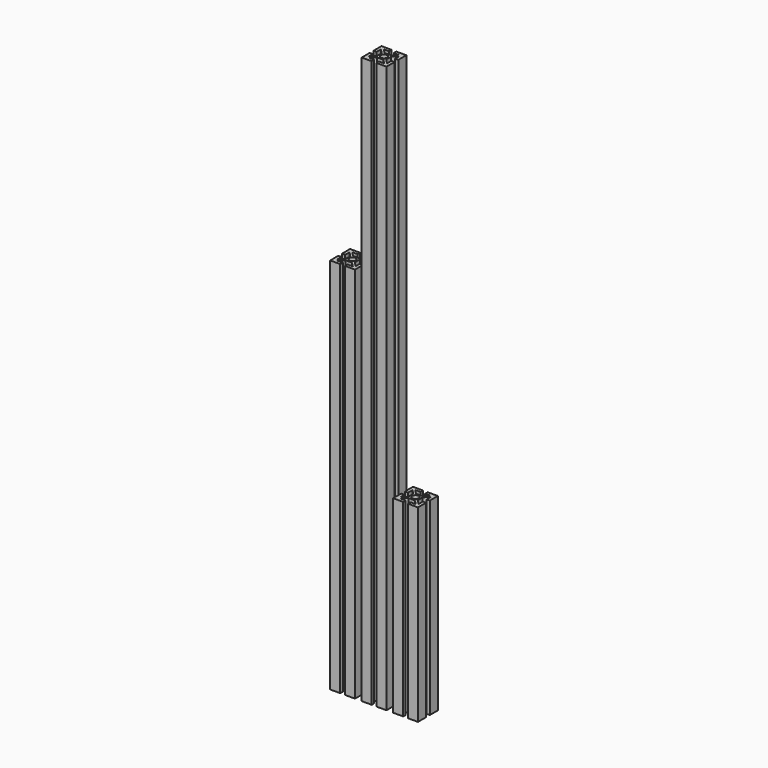
from build123d import *

# Parameters (mm, degrees)
F0_R     = 2.6035
F1_DEPTH = 304.8
F2_DEPTH = 457.2
F3_DEPTH = 152.4


with BuildPart() as f1:
    # F0 (on Top) → F1 (new body)
    with BuildSketch(Plane.XY):
        Polygon((-11.70134, 7.565552), (-16.78134, 7.565552), (-20.43134, 11.215552), (-16.14634, 11.215552), (-16.14634, 13.755552), (-24.24134, 13.755552), (-24.24134, 5.660552), (-21.70134, 5.660552), (-21.70134, 9.945552), (-18.05134, 6.295552), (-18.05134, 1.215552), (-21.70134, -2.434448), (-21.70134, 1.850552), (-24.24134, 1.850552), (-24.24134, -6.244448), (-16.14634, -6.244448), (-16.14634, -3.704448), (-20.43134, -3.704448), (-16.78134, -0.054448), (-11.70134, -0.054448), (-8.05134, -3.704448), (-12.33634, -3.704448), (-12.33634, -6.244448), (-4.24134, -6.244448), (-4.24134, 1.850552), (-6.78134, 1.850552), (-6.78134, -2.434448), (-10.43134, 1.215552), (-10.43134, 6.295552), (-6.78134, 9.945552), (-6.78134, 5.660552), (-4.24134, 5.660552), (-4.24134, 13.755552), (-12.33634, 13.755552), (-12.33634, 11.215552), (-8.05134, 11.215552), align=None)
        with Locations((-14.24134, 3.755552)):
            Circle(F0_R, mode=Mode.SUBTRACT)
    extrude(amount=F1_DEPTH)


with BuildPart() as f2:
    # F0 (on Top) → F2 (new body)
    with BuildSketch(Plane.XY):
        Polygon((9.25366, 13.755552), (1.15866, 13.755552), (1.15866, 5.660552), (3.69866, 5.660552), (3.69866, 9.945552), (7.34866, 6.295552), (7.34866, 1.215552), (3.69866, -2.434448), (3.69866, 1.850552), (1.15866, 1.850552), (1.15866, -6.244448), (9.25366, -6.244448), (9.25366, -3.704448), (4.96866, -3.704448), (8.61866, -0.054448), (13.69866, -0.054448), (17.34866, -3.704448), (13.06366, -3.704448), (13.06366, -6.244448), (21.15866, -6.244448), (21.15866, 1.850552), (18.61866, 1.850552), (18.61866, -2.434448), (14.96866, 1.215552), (14.96866, 6.295552), (18.61866, 9.945552), (18.61866, 5.660552), (21.15866, 5.660552), (21.15866, 13.755552), (13.06366, 13.755552), (13.06366, 11.215552), (17.34866, 11.215552), (13.69866, 7.565552), (8.61866, 7.565552), (4.96866, 11.215552), (9.25366, 11.215552), align=None)
        with Locations((11.15866, 3.755552)):
            Circle(F0_R, mode=Mode.SUBTRACT)
    extrude(amount=F2_DEPTH)


with BuildPart() as f3:
    # F0 (on Top) → F3 (new body)
    with BuildSketch(Plane.XY):
        Polygon((34.65366, 13.755552), (26.55866, 13.755552), (26.55866, 5.660552), (29.09866, 5.660552), (29.09866, 9.945552), (32.74866, 6.295552), (32.74866, 1.215552), (29.09866, -2.434448), (29.09866, 1.850552), (26.55866, 1.850552), (26.55866, -6.244448), (34.65366, -6.244448), (34.65366, -3.704448), (30.36866, -3.704448), (34.01866, -0.054448), (39.09866, -0.054448), (42.74866, -3.704448), (38.46366, -3.704448), (38.46366, -6.244448), (46.55866, -6.244448), (46.55866, 1.850552), (44.01866, 1.850552), (44.01866, -2.434448), (40.36866, 1.215552), (40.36866, 6.295552), (44.01866, 9.945552), (44.01866, 5.660552), (46.55866, 5.660552), (46.55866, 13.755552), (38.46366, 13.755552), (38.46366, 11.215552), (42.74866, 11.215552), (39.09866, 7.565552), (34.01866, 7.565552), (30.36866, 11.215552), (34.65366, 11.215552), align=None)
        with Locations((36.55866, 3.755552)):
            Circle(F0_R, mode=Mode.SUBTRACT)
    extrude(amount=F3_DEPTH)


solid = Compound([f1.part, f2.part, f3.part])
